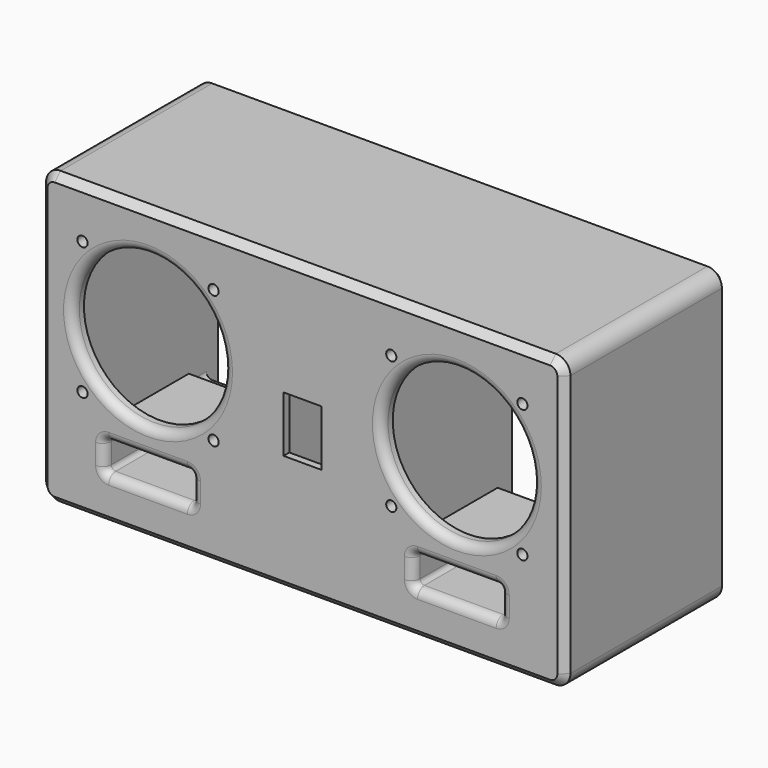
from build123d import *

# Parameters (mm, degrees)
SKETCH_W        = 180
SKETCH_H        = 100
PAD_DEPTH       = 70
SKETCH001_W     = 170
SKETCH001_H     = 90
POCKET_DEPTH    = 65
SKETCH002_R     = 26
SKETCH002_R_2   = 1.75
SKETCH002_W     = 30
SKETCH002_H     = 10
SKETCH002_W_2   = 13
SKETCH002_H_2   = 19.2
POCKET001_DEPTH = 5
SKETCH003_W     = 36
SKETCH003_H     = 16
SKETCH003_W_2   = 30
SKETCH003_H_2   = 10
PAD001_DEPTH    = 35
SKETCH004_W     = 5
SKETCH004_H     = 90
SKETCH004_W_2   = 4.8
SKETCH004_H_2   = 10
PAD002_DEPTH    = 60
SKETCH005_W     = 5
SKETCH005_H     = 5
POCKET002_DEPTH = 5
SKETCH006_W     = 5
SKETCH006_H     = 5
POCKET003_DEPTH = 5
SKETCH007_W     = 19
SKETCH007_H     = 26
POCKET004_DEPTH = 2.5
SKETCH008_W     = 7
SKETCH008_H     = 4
PAD003_DEPTH    = 7
SKETCH009_W     = 7
SKETCH009_H     = 4
PAD004_DEPTH    = 7
SKETCH010_R     = 1.75
POCKET005_DEPTH = 15
FILLET_R        = 1.5
FILLET001_R     = 2
FILLET002_R     = 3
FILLET003_R     = 3
FILLET004_R     = 5
CHAMFER_SIZE    = 2.5
SKETCH011_R     = 1.75
POCKET006_DEPTH = 5
SKETCH012_R     = 8.5
POCKET007_DEPTH = 1


with BuildPart() as part:
    # Sketch → Pad (new body)
    with BuildSketch(Plane.XZ):
        Rectangle(SKETCH_W, SKETCH_H)
    extrude(amount=-PAD_DEPTH)

    # Sketch001 (on Face6 of Pad) → Pocket (cut)
    with BuildSketch(Plane(origin=(0, 70, 0), x_dir=(1, 0, 0), z_dir=(0, 1, 0))):
        Rectangle(SKETCH001_W, SKETCH001_H)
    extrude(amount=-POCKET_DEPTH, mode=Mode.SUBTRACT)

    # Sketch002 (on Face4 of Pocket) → Pocket001 (cut)
    with BuildSketch(Plane.XZ):
        with Locations((-53, 10)):
            Circle(SKETCH002_R)
        with Locations((-75.5, 32.754121)):
            Circle(SKETCH002_R_2)
        with Locations((-30.5, -12.754121)):
            Circle(SKETCH002_R_2)
        with Locations((-30.5, 32.754121)):
            Circle(SKETCH002_R_2)
        with Locations((-75.5, -12.754121)):
            Circle(SKETCH002_R_2)
        with Locations((53, 10)):
            Circle(SKETCH002_R)
        with Locations((75.5, 32.754121)):
            Circle(SKETCH002_R_2)
        with Locations((30.5, -12.754121)):
            Circle(SKETCH002_R_2)
        with Locations((30.5, 32.754121)):
            Circle(SKETCH002_R_2)
        with Locations((75.5, -12.754121)):
            Circle(SKETCH002_R_2)
        with Locations((-53, -30)):
            Rectangle(SKETCH002_W, SKETCH002_H)
        with Locations((53, -30)):
            Rectangle(SKETCH002_W, SKETCH002_H)
        Rectangle(SKETCH002_W_2, SKETCH002_H_2)
    extrude(amount=-POCKET001_DEPTH, mode=Mode.SUBTRACT)

    # Sketch003 (on Face33 of Pocket001) → Pad001 (join)
    with BuildSketch(Plane(origin=(0, 5, 0), x_dir=(1, 0, 0), z_dir=(0, 1, 0))):
        with Locations((-53, 30)):
            Rectangle(SKETCH003_W, SKETCH003_H)
        with Locations((-53, 30)):
            Rectangle(SKETCH003_W_2, SKETCH003_H_2, mode=Mode.SUBTRACT)
        with Locations((53, 30)):
            Rectangle(SKETCH003_W, SKETCH003_H)
        with Locations((53, 30)):
            Rectangle(SKETCH003_W_2, SKETCH003_H_2, mode=Mode.SUBTRACT)
    extrude(amount=PAD001_DEPTH)

    # Sketch004 (on Face25 of Pad001) → Pad002 (join)
    with BuildSketch(Plane(origin=(0, 5, 0), x_dir=(1, 0, 0), z_dir=(0, 1, 0))):
        with Locations((-17.5, 0)):
            Rectangle(SKETCH004_W, SKETCH004_H)
        with Locations((17.5, 0)):
            Rectangle(SKETCH004_W, SKETCH004_H)
        with Locations((-12.6, 40)):
            Rectangle(SKETCH004_W_2, SKETCH004_H_2)
        with Locations((12.6, 40)):
            Rectangle(SKETCH004_W_2, SKETCH004_H_2)
    extrude(amount=PAD002_DEPTH)

    # Sketch005 (on Face38 of Pad002) → Pocket002 (cut)
    with BuildSketch(Plane(origin=(20, 0, 0), x_dir=(0, 0, 1), z_dir=(1, 0, 0))):
        with Locations((0, -62.5)):
            Rectangle(SKETCH005_W, SKETCH005_H)
    extrude(amount=-POCKET002_DEPTH, mode=Mode.SUBTRACT)

    # Sketch006 (on Face43 of Pocket002) → Pocket003 (cut)
    with BuildSketch(Plane(origin=(-20, 0, 0), x_dir=(0, 0, -1), z_dir=(-1, 0, 0))):
        with Locations((0, -62.5)):
            Rectangle(SKETCH006_W, SKETCH006_H)
    extrude(amount=-POCKET003_DEPTH, mode=Mode.SUBTRACT)

    # Sketch007 (on Face35 of Pocket003) → Pocket004 (cut)
    with BuildSketch(Plane(origin=(0, 5, 0), x_dir=(1, 0, 0), z_dir=(0, 1, 0))):
        Rectangle(SKETCH007_W, SKETCH007_H)
    extrude(amount=-POCKET004_DEPTH, mode=Mode.SUBTRACT)

    # Sketch008 (on Face32 of Pocket004) → Pad003 (join)
    with BuildSketch(Plane(origin=(-85, 0, 0), x_dir=(0, 0, 1), z_dir=(1, 0, 0))):
        with Locations((41.5, -63)):
            Rectangle(SKETCH008_W, SKETCH008_H)
        with Locations((41.5, -56.5)):
            Rectangle(SKETCH008_W, SKETCH008_H)
        with Locations((-41.5, -63)):
            Rectangle(SKETCH008_W, SKETCH008_H)
        with Locations((-41.5, -56.5)):
            Rectangle(SKETCH008_W, SKETCH008_H)
    extrude(amount=PAD003_DEPTH)

    # Sketch009 (on Face30 of Pad003) → Pad004 (join)
    with BuildSketch(Plane(origin=(85, 0, 0), x_dir=(0, 0, -1), z_dir=(-1, 0, 0))):
        with Locations((41.5, -63)):
            Rectangle(SKETCH009_W, SKETCH009_H)
        with Locations((41.5, -56.5)):
            Rectangle(SKETCH009_W, SKETCH009_H)
        with Locations((-41.5, -63)):
            Rectangle(SKETCH009_W, SKETCH009_H)
        with Locations((-41.5, -56.5)):
            Rectangle(SKETCH009_W, SKETCH009_H)
    extrude(amount=PAD004_DEPTH)

    # Sketch010 (on Face65 of Pad004) → Pocket005 (cut)
    with BuildSketch(Plane(origin=(0, 65, 0), x_dir=(1, 0, 0), z_dir=(0, 1, 0))):
        with Locations((-81.5, 41.5)):
            Circle(SKETCH010_R)
        with Locations((81.5, 41.5)):
            Circle(SKETCH010_R)
        with Locations((-81.5, -41.5)):
            Circle(SKETCH010_R)
        with Locations((81.5, -41.5)):
            Circle(SKETCH010_R)
    extrude(amount=-POCKET005_DEPTH, mode=Mode.SUBTRACT)

    # Fillet
    fillet_edges = [part.edges().sort_by_distance(p)[0] for p in [
        (68, 20, -35),
        (-38, 20, -35),
        (38, 20, -35),
        (-68, 20, -35),
        (-68, 20, -25),
        (38, 20, -25),
        (-38, 20, -25),
        (68, 20, -25),
        (53, 40, -25),
        (68, 40, -30),
        (53, 40, -35),
        (38, 40, -30),
        (-53, 40, -25),
        (-68, 40, -30),
        (-53, 40, -35),
        (-38, 40, -30),
    ]]
    fillet(fillet_edges, radius=FILLET_R)

    # Fillet001
    fillet001_edges = [part.edges().sort_by_distance(p)[0] for p in [
        (53, 5, -22),
        (71, 5, -30),
        (-53, 5, -22),
        (-35, 5, -30),
        (35, 5, -30),
        (-71, 5, -30),
        (-53, 5, -38),
        (53, 5, -38),
        (17.5, 60, 2.5),
        (-17.5, 60, 2.5),
        (17.5, 60, -2.5),
        (-17.5, 60, -2.5),
        (-85, 56.5, 38),
        (-85, 63, 38),
        (-78, 56.5, 45),
        (-78, 63, 45),
        (85, 63, 38),
        (78, 63, 45),
        (78, 56.5, 45),
        (85, 56.5, 38),
        (85, 63, -38),
        (85, 56.5, -38),
        (78, 63, -45),
        (78, 56.5, -45),
        (-85, 56.5, -38),
        (-85, 63, -38),
        (-78, 56.5, -45),
        (-78, 63, -45),
    ]]
    fillet(fillet001_edges, radius=FILLET001_R)

    # Fillet002
    fillet002_edges = [part.edges().sort_by_distance(p)[0] for p in [
        (-67.56066, 0, -25.43934),
        (-53, 0, -25),
        (-38.43934, 0, -25.43934),
        (-38, 0, -30),
        (-38.43934, 0, -34.56066),
        (-53, 0, -35),
        (-67.56066, 0, -34.56066),
        (-68, 0, -30),
        (38, 0, -30),
        (38.43934, 0, -25.43934),
        (53, 0, -25),
        (67.56066, 0, -25.43934),
        (68, 0, -30),
        (67.56066, 0, -34.56066),
        (53, 0, -35),
        (38.43934, 0, -34.56066),
    ]]
    fillet(fillet002_edges, radius=FILLET002_R)

    # Fillet003
    fillet003_edges = [part.edges().sort_by_distance(p)[0] for p in [
        (-79, 0, 10),
        (27, 0, 10),
    ]]
    fillet(fillet003_edges, radius=FILLET003_R)

    # Fillet004
    fillet004_edges = [part.edges().sort_by_distance(p)[0] for p in [
        (-90, 35, 50),
        (90, 35, 50),
        (90, 35, -50),
        (-90, 35, -50),
    ]]
    fillet(fillet004_edges, radius=FILLET004_R)

    # Chamfer
    chamfer_edges = [part.edges().sort_by_distance(p)[0] for p in [
        (0, 0, 50),
        (88.535534, 0, 48.535534),
        (90, 0, 0),
        (88.535534, 0, -48.535534),
        (0, 0, -50),
        (-88.535534, 0, 48.535534),
        (-90, 0, 0),
        (-88.535534, 0, -48.535534),
        (0, 70, 50),
        (-88.535534, 70, 48.535534),
        (-90, 70, 0),
        (-88.535534, 70, -48.535534),
        (0, 70, -50),
        (88.535534, 70, -48.535534),
        (90, 70, 0),
        (88.535534, 70, 48.535534),
    ]]
    chamfer(chamfer_edges, length=CHAMFER_SIZE)

    # Sketch011 (on Face90 of Chamfer) → Pocket006 (cut)
    with BuildSketch(Plane(origin=(0, 0, -45), x_dir=(-1, 0, 0), z_dir=(0, 0, 1))):
        with Locations((-5.5, -39)):
            Circle(SKETCH011_R)
    extrude(amount=-POCKET006_DEPTH, mode=Mode.SUBTRACT)

    # Sketch012 (on Face47 of Pocket006) → Pocket007 (cut)
    with BuildSketch(Plane(origin=(0, 0, -50), x_dir=(1, 0, 0), z_dir=(0, 0, -1))):
        with Locations((-74, -13)):
            Circle(SKETCH012_R)
        with Locations((74, -13)):
            Circle(SKETCH012_R)
        with Locations((74, -57)):
            Circle(SKETCH012_R)
        with Locations((-74, -57)):
            Circle(SKETCH012_R)
    extrude(amount=-POCKET007_DEPTH, mode=Mode.SUBTRACT)


solid = part.part
